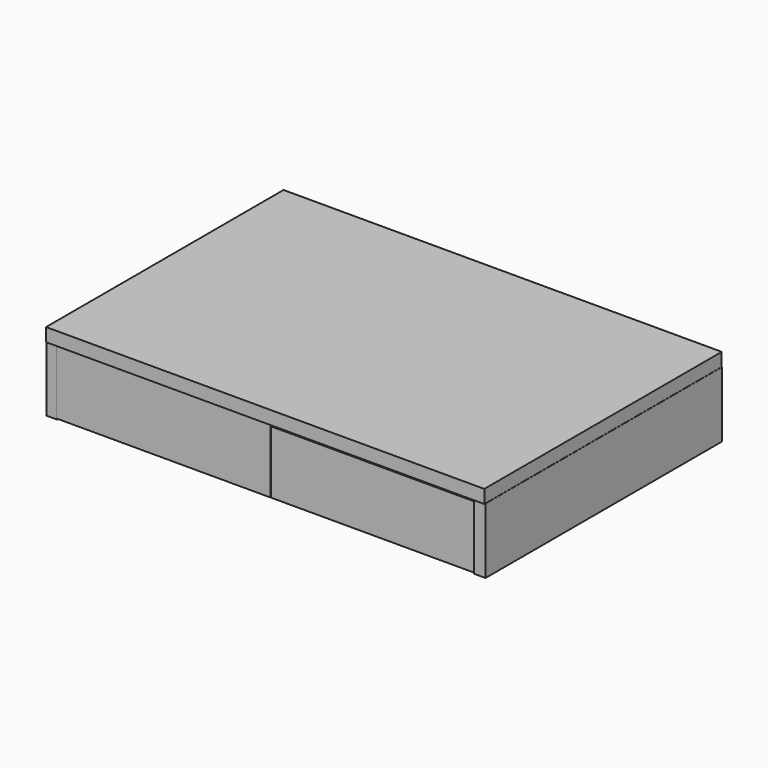
from build123d import *

# Parameters (mm, degrees)
F0_R      = 2.095261
F0_R_2    = 2.075397
F0_R_3    = 2.075398
F1_DEPTH  = 88.9
F2_W      = 4.029281
F2_H      = 18.995181
F3_DEPTH  = 61.722
F4_W      = 4.31709
F4_H      = 19.570792
F5_DEPTH  = 64.77
F6_W      = 3.165863
F6_H      = 20.146404
F7_DEPTH  = 88.9
F6_W_2    = 3.453664
F6_H_2    = 19.858598
F8_DEPTH  = 89.408
F0_W      = 128.361375
F0_H      = 18.707374
F9_DEPTH  = 3.81
F10_W     = 89.81093
F10_H     = 4.02928
F11_DEPTH = 65.278
F12_DEPTH = 132.588


with BuildPart() as f1:
    # F0 (on Front) → F1 (new body)
    with BuildSketch(Plane.XZ):
        with Locations((-60.727015, -5.468309)):
            Circle(F0_R)
        with Locations((-60.727015, 4.604892)):
            Circle(F0_R_2)
        with Locations((59.863601, 4.604892)):
            Circle(F0_R_2)
        with Locations((59.863601, -5.468309)):
            Circle(F0_R_3)
    extrude(amount=F1_DEPTH)


with BuildPart() as f3:
    # F2 (on Right) → F3 (new body)
    with BuildSketch(Plane.YZ):
        with Locations((-86.935613, -0.287806)):
            Rectangle(F2_W, F2_H)
    extrude(amount=F3_DEPTH)


with BuildPart() as f5:
    # F4 (on Right) → F5 (new body)
    with BuildSketch(Plane.YZ):
        with Locations((-86.816832, 0)):
            Rectangle(F4_W, F4_H)
    extrude(amount=-F5_DEPTH)

    # F6 (on Front) → F7 (join)
    with BuildSketch(Plane.XZ):
        with Locations((-66.339228, 0)):
            Rectangle(F6_W, F6_H)
    extrude(amount=F7_DEPTH)


with BuildPart() as f8:
    # F6 (on Front) → F8 (new body)
    with BuildSketch(Plane.XZ):
        with Locations((63.605074, 0.143903)):
            Rectangle(F6_W_2, F6_H_2)
    extrude(amount=F8_DEPTH)

    # F10 (on Right) → F11 (join)
    with BuildSketch(Plane.YZ):
        with Locations((-44.905465, 12.087842)):
            Rectangle(F10_W, F10_H)
    extrude(amount=F11_DEPTH)


with BuildPart() as f9:
    # F0 (on Front) → F9 (new body)
    with BuildSketch(Plane.XZ):
        with Locations((-0.57561, -0.431709)):
            Rectangle(F0_W, F0_H)
        with Locations((-60.727015, -5.468309)):
            Circle(F0_R, mode=Mode.SUBTRACT)
        with Locations((59.863601, -5.468309)):
            Circle(F0_R_3, mode=Mode.SUBTRACT)
        with Locations((-60.727015, 4.604892)):
            Circle(F0_R_2, mode=Mode.SUBTRACT)
        with Locations((59.863601, 4.604892)):
            Circle(F0_R_2, mode=Mode.SUBTRACT)
    extrude(amount=F9_DEPTH)


with BuildPart() as f12:
    # F11_face (on face) → F12 (new body)
    with BuildSketch(Plane(origin=(65.278, -44.905465, 12.087842), x_dir=(0, 1, 0), z_dir=(1, 0, 0))):
        Polygon((44.905465, 2.01464), (-44.905465, 2.01464), (-44.905465, -2.01464), (-44.502535, -2.01464), (44.905465, -2.01464), align=None)
    extrude(amount=-F12_DEPTH)


solid = Compound([f1.part, f3.part, f5.part, f8.part, f9.part, f12.part])
